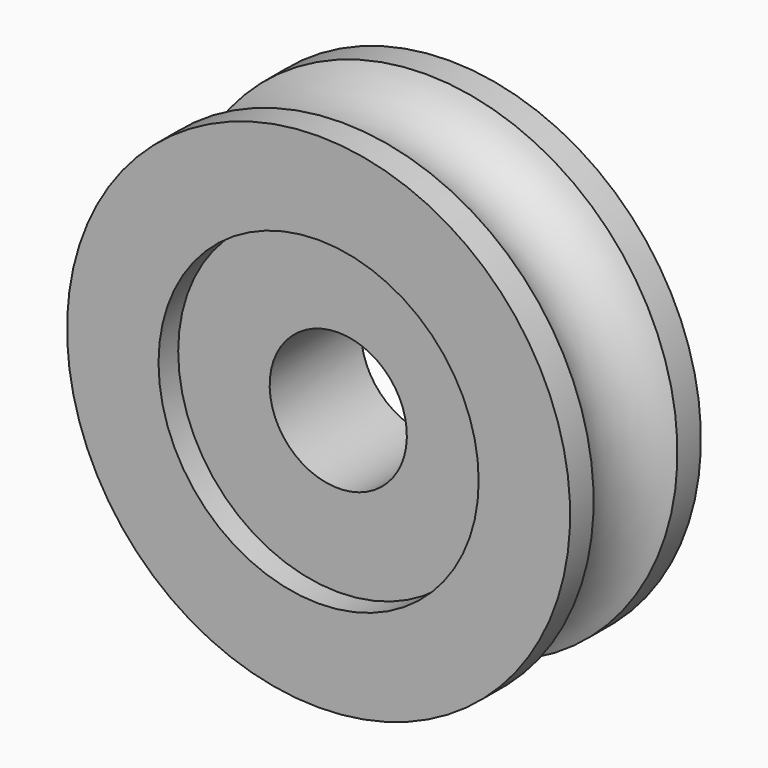
from build123d import *


with BuildPart() as f1:
    # F0 (on Right) → F1 (revolve)
    with BuildSketch(Plane.YZ):
        with BuildLine():
            Line((-2.5, 7), (-2.5, 3))
            Line((-2.5, 3), (2.5, 3))
            Line((2.5, 3), (2.5, 7))
            Line((2.5, 7), (3.575, 7))
            Line((3.575, 7), (3.575, 11))
            Line((3.575, 11), (2.291288, 11))
            ThreePointArc((2.291288, 11), (0, 9.5), (-2.291288, 11))
            Line((-2.291288, 11), (-3.575, 11))
            Line((-3.575, 11), (-3.575, 7))
            Line((-3.575, 7), (-2.5, 7))
        make_face()
    revolve(axis=Axis((0, 4.750687, 0), (0, 1, 0)))


solid = f1.part
